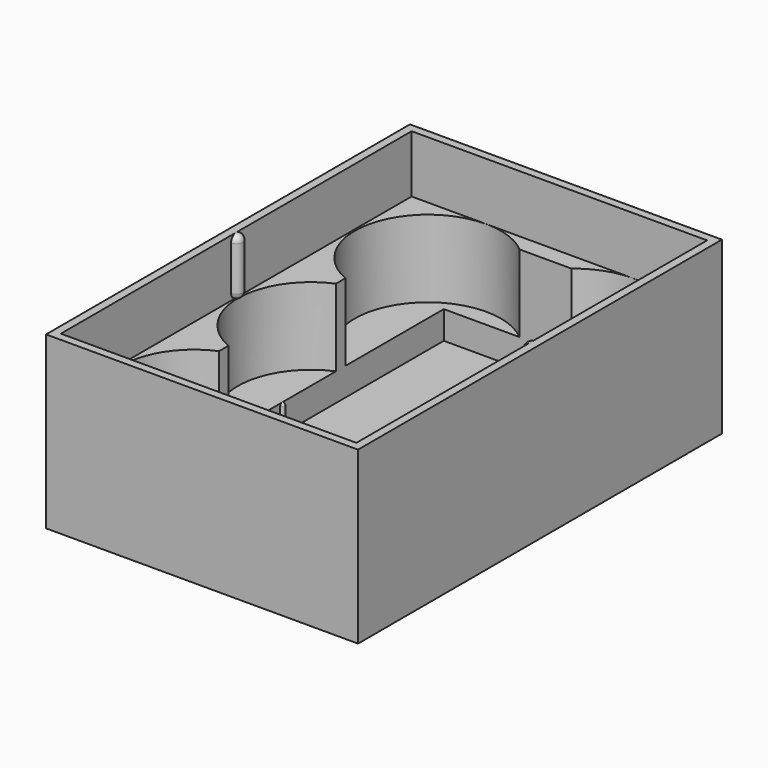
from build123d import *

# Parameters (mm, degrees)
F0_W      = 95
F0_H      = 138.5
F1_DEPTH  = 2.5
F2_W      = 95
F2_H      = 138.5
F2_W_2    = 62
F2_H_2    = 123
F3_DEPTH  = 8.5
F4_W      = 95
F4_H      = 138.5
F5_DEPTH  = 23.5
F6_W      = 62
F6_H      = 123
F7_DEPTH  = 23.501
F8_W      = 95
F8_H      = 138.5
F8_W_2    = 90
F8_H_2    = 133.5
F9_DEPTH  = 17.5
F11_ANGLE = 180
F13_ANGLE = 180
F14_W     = 0.75
F14_H     = 7.75
F16_W     = 0.75
F16_H     = 7.75


with BuildPart() as f1:
    # F0 (on Top) → F1 (new body)
    with BuildSketch(Plane.XY):
        Rectangle(F0_W, F0_H)
    extrude(amount=F1_DEPTH)

    # F2 (on face) → F3 (join)
    with BuildSketch(Plane.XY.offset(2.5)):
        Rectangle(F2_W, F2_H)
        Rectangle(F2_W_2, F2_H_2, mode=Mode.SUBTRACT)
    extrude(amount=F3_DEPTH)

    # F4 (on face) → F5 (join)
    with BuildSketch(Plane.XY.offset(11)):
        with BuildLine():
            ThreePointArc((-22.25, 22.25), (-6.516874, 28.766874), (0, 44.5))
            ThreePointArc((0, 44.5), (-37.983126, 60.233126), (-22.25, 22.25))
        make_face()
        with BuildLine():
            ThreePointArc((44.5, 44.5), (22.25, 66.75), (0, 44.5))
            ThreePointArc((0, 44.5), (6.516874, 28.766874), (22.25, 22.25))
            ThreePointArc((22.25, 22.25), (37.983126, 28.766874), (44.5, 44.5))
        make_face()
        with BuildLine():
            ThreePointArc((0, 0), (-6.516874, 15.733126), (-22.25, 22.25))
            ThreePointArc((-22.25, 22.25), (-44.5, 0), (-22.25, -22.25))
            ThreePointArc((-22.25, -22.25), (-6.516874, -15.733126), (0, 0))
        make_face()
        with BuildLine():
            ThreePointArc((44.5, 0), (37.983126, 15.733126), (22.25, 22.25))
            ThreePointArc((22.25, 22.25), (6.516874, 15.733126), (0, 0))
            ThreePointArc((0, 0), (6.516874, -15.733126), (22.25, -22.25))
            ThreePointArc((22.25, -22.25), (37.983126, -15.733126), (44.5, 0))
        make_face()
        with BuildLine():
            ThreePointArc((0, -44.5), (-6.516874, -28.766874), (-22.25, -22.25))
            ThreePointArc((-22.25, -22.25), (-37.983126, -60.233126), (0, -44.5))
        make_face()
        with BuildLine():
            ThreePointArc((44.5, -44.5), (37.983126, -28.766874), (22.25, -22.25))
            ThreePointArc((22.25, -22.25), (6.516874, -28.766874), (0, -44.5))
            ThreePointArc((0, -44.5), (22.25, -66.75), (44.5, -44.5))
        make_face()
        Rectangle(F4_W, F4_H)
        with BuildLine():
            ThreePointArc((-22.25, 22.25), (-37.983126, 60.233126), (0, 44.5))
            ThreePointArc((0, 44.5), (22.25, 66.75), (44.5, 44.5))
            ThreePointArc((44.5, 44.5), (37.983126, 28.766874), (22.25, 22.25))
            ThreePointArc((22.25, 22.25), (37.983126, 15.733126), (44.5, 0))
            ThreePointArc((44.5, 0), (37.983126, -15.733126), (22.25, -22.25))
            ThreePointArc((22.25, -22.25), (37.983126, -28.766874), (44.5, -44.5))
            ThreePointArc((44.5, -44.5), (22.25, -66.75), (0, -44.5))
            ThreePointArc((0, -44.5), (-37.983126, -60.233126), (-22.25, -22.25))
            ThreePointArc((-22.25, -22.25), (-44.5, 0), (-22.25, 22.25))
        make_face(mode=Mode.SUBTRACT)
    extrude(amount=F5_DEPTH)

    # F6 (on face) → F7 (cut, through all)
    with BuildSketch(Plane.XY.offset(11)):
        Rectangle(F6_W, F6_H)
    extrude(amount=F7_DEPTH, mode=Mode.SUBTRACT)

    # F8 (on face) → F9 (join)
    with BuildSketch(Plane.XY.offset(34.5)):
        Rectangle(F8_W, F8_H)
        Rectangle(F8_W_2, F8_H_2, mode=Mode.SUBTRACT)
    extrude(amount=F9_DEPTH)

    # F10 (on face) → F11 (revolve)
    with BuildSketch(Plane.YZ.offset(-45)):
        with BuildLine():
            Line((0, 36.5), (0, 34.5))
            ThreePointArc((0, 34.5), (1.414214, 35.085786), (2, 36.5))
            Line((2, 36.5), (2, 50))
            ThreePointArc((2, 50), (1.414214, 51.414214), (0, 52))
            Line((0, 52), (0, 50))
            Line((0, 50), (0, 36.5))
        make_face()
    revolve(axis=Axis((-45, 0, 43.25), (0, 0, -1)), revolution_arc=F11_ANGLE)

    # F12 (on face) → F13 (revolve)
    with BuildSketch(Plane(origin=(45, 0, 0), x_dir=(0, -1, 0), z_dir=(-1, 0, 0))):
        with BuildLine():
            ThreePointArc((-2, 36.5), (-1.414214, 35.085786), (0, 34.5))
            Line((0, 34.5), (0, 36.5))
            Line((0, 36.5), (0, 50))
            Line((0, 50), (-2, 50))
            Line((-2, 50), (-2, 36.5))
        make_face()
        with BuildLine():
            Line((-2, 50), (0, 50))
            Line((0, 50), (0, 52))
            ThreePointArc((0, 52), (-1.414214, 51.414214), (-2, 50))
        make_face()
    revolve(axis=Axis((45, 0, 43.25), (0, 0, 1)), revolution_arc=F13_ANGLE)

    # F14 (on face) → F15 (revolve)
    with BuildSketch(Plane.YZ.offset(-31)):
        with BuildLine():
            ThreePointArc((0.75, 10.25), (0.53033, 10.78033), (0, 11))
            Line((0, 11), (0, 10.25))
            Line((0, 10.25), (0.75, 10.25))
        make_face()
        with Locations((0.375, 6.375)):
            Rectangle(F14_W, F14_H)
    revolve(axis=Axis((-31, 0, 6.75), (0, 0, -1)))

    # F16 (on face) → F17 (revolve)
    with BuildSketch(Plane(origin=(31, 0, 0), x_dir=(0, -1, 0), z_dir=(-1, 0, 0))):
        with Locations((-0.375, 6.375)):
            Rectangle(F16_W, F16_H)
        with BuildLine():
            Line((-0.75, 10.25), (0, 10.25))
            Line((0, 10.25), (0, 11))
            ThreePointArc((0, 11), (-0.53033, 10.78033), (-0.75, 10.25))
        make_face()
    revolve(axis=Axis((31, 0, 6.75), (0, 0, 1)))


solid = f1.part
